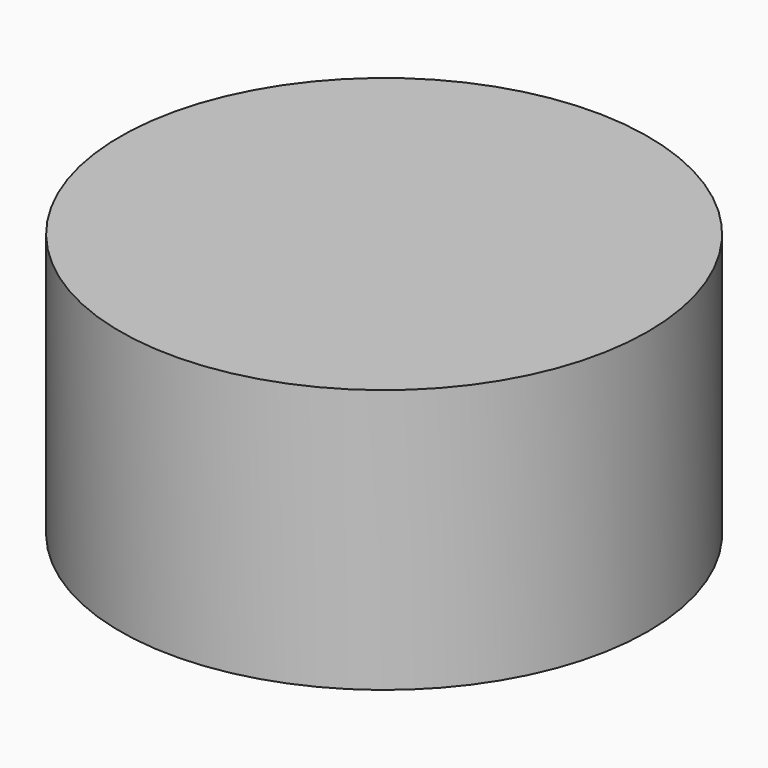
from build123d import *

# Parameters (mm, degrees)
CYLINDER_R     = 1
CYLINDER_DEPTH = 1


with BuildPart() as part:
    # Cylinder → Cylinder (new body)
    with BuildSketch(Plane.XY):
        Circle(CYLINDER_R)
    extrude(amount=CYLINDER_DEPTH)


solid = part.part
